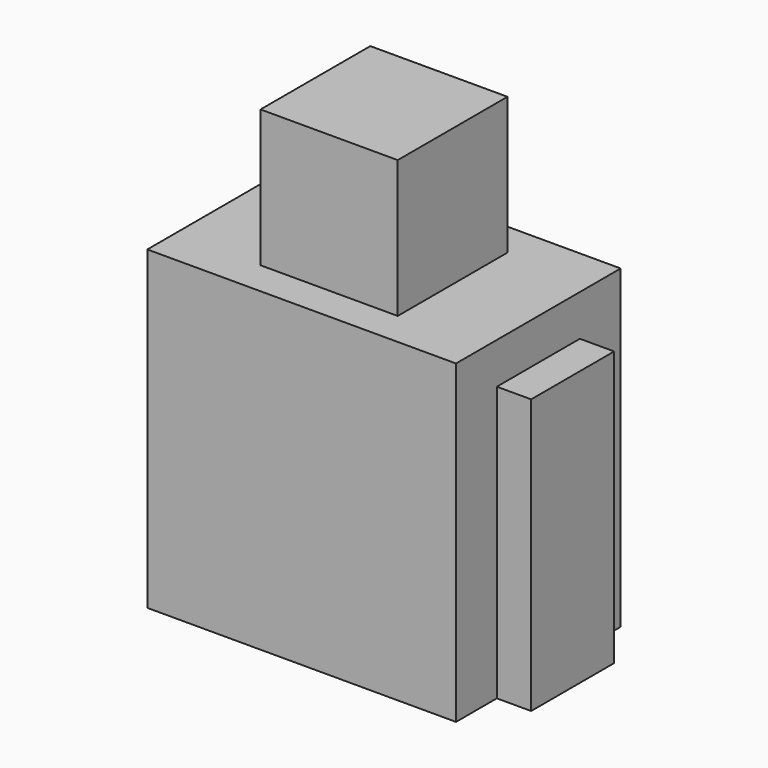
from build123d import *

# Parameters (mm, degrees)
F0_W      = 57.15
F0_H      = 38.1
F1_DEPTH  = 58.42
F2_W      = 25.4
F2_H      = 25.4
F3_DEPTH  = 25.4
F4_W      = 50.8
F4_H      = 25.4
F5_DEPTH  = 50.8
F6_W      = 20.32
F6_H      = 20.32
F7_DEPTH  = 81.28
F8_W      = 22.86
F8_H      = 12.7
F9_DEPTH  = 25.4
F10_W     = 6.35
F10_H     = 6.35
F10_W_2   = 15.24
F10_H_2   = 5.08
F11_DEPTH = 12.7
F12_W     = 25.4
F12_H     = 9.817438
F13_DEPTH = 12.7
F14_W     = 19.21422
F14_H     = 50.8
F15_DEPTH = 6.35


with BuildPart() as f1:
    # F0 (on Top) → F1 (new body)
    with BuildSketch(Plane.XY):
        Rectangle(F0_W, F0_H)
    extrude(amount=F1_DEPTH)

    # F2 (on face) → F3 (join)
    with BuildSketch(Plane.XY.offset(58.42)):
        Rectangle(F2_W, F2_H)
    extrude(amount=F3_DEPTH)

    # F4 (on face) → F5 (cut)
    with BuildSketch(Plane.XY):
        Rectangle(F4_W, F4_H)
    extrude(amount=F5_DEPTH, mode=Mode.SUBTRACT)

    # F6 (on face) → F7 (cut)
    with BuildSketch(Plane.XY):
        Rectangle(F6_W, F6_H)
    extrude(amount=F7_DEPTH, mode=Mode.SUBTRACT)

    # F8 (on face) → F9 (cut)
    with BuildSketch(Plane(origin=(-28.575, 0, 0), x_dir=(0, -1, 0), z_dir=(-1, 0, 0))):
        with Locations((0, 31.75)):
            Rectangle(F8_W, F8_H)
    extrude(amount=-F9_DEPTH, mode=Mode.SUBTRACT)

    # F10 (on face) → F11 (cut)
    with BuildSketch(Plane(origin=(0, 12.7, 0), x_dir=(-1, 0, 0), z_dir=(0, 1, 0))):
        with Locations((-5.08, 74.295)):
            Rectangle(F10_W, F10_H)
        with Locations((5.08, 74.295)):
            Rectangle(F10_W, F10_H)
        with Locations((0, 63.942472)):
            Rectangle(F10_W_2, F10_H_2)
    extrude(amount=-F11_DEPTH, mode=Mode.SUBTRACT)

    # F12 (on face) → F13 (cut)
    with BuildSketch(Plane(origin=(0, 19.05, 0), x_dir=(-1, 0, 0), z_dir=(0, 1, 0))):
        with Locations((0, 15.411281)):
            Rectangle(F12_W, F12_H)
    extrude(amount=-F13_DEPTH, mode=Mode.SUBTRACT)

    # F14 (on face) → F15 (join)
    with BuildSketch(Plane.YZ.offset(28.575)):
        with Locations((0, 25.4)):
            Rectangle(F14_W, F14_H)
    extrude(amount=F15_DEPTH)


solid = f1.part
